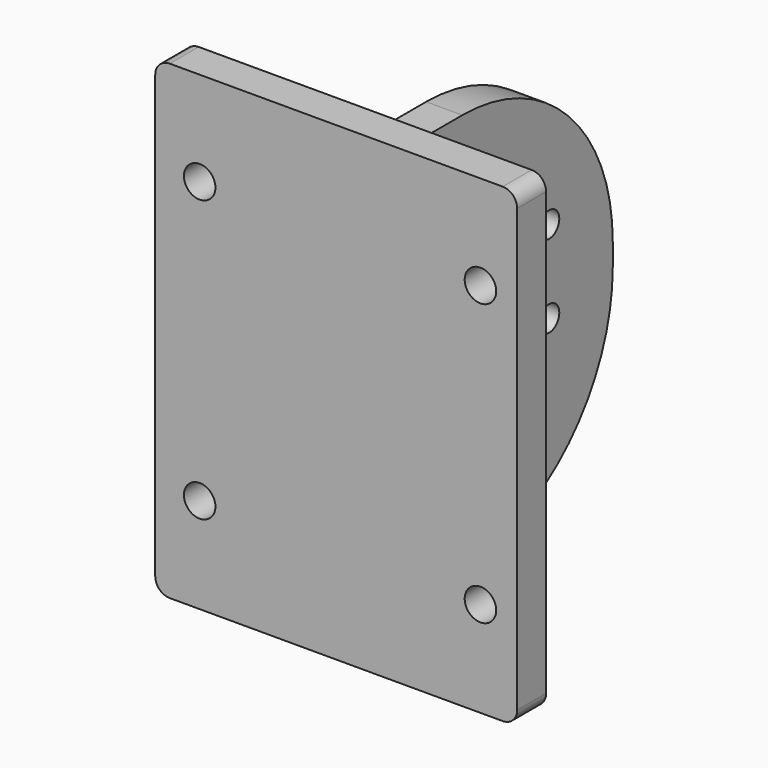
from build123d import *

# Parameters (mm, degrees)
F0_R     = 2.76225
F2_DEPTH = 6.35
F1_R     = 2.212587
F1_R_2   = 8.89
F3_DEPTH = 6.35


with BuildPart() as f2:
    # F0 (on Front) → F2 (new body)
    with BuildSketch(Plane.XZ):
        with BuildLine():
            ThreePointArc((31.75, 38.735), (31.006051, 40.531051), (29.21, 41.275))
            Line((29.21, 41.275), (-29.21, 41.275))
            ThreePointArc((-29.21, 41.275), (-31.006051, 40.531051), (-31.75, 38.735))
            Line((-31.75, 38.735), (-31.75, -38.735))
            ThreePointArc((-31.75, -38.735), (-31.006051, -40.531051), (-29.21, -41.275))
            Line((-29.21, -41.275), (29.21, -41.275))
            ThreePointArc((29.21, -41.275), (31.006051, -40.531051), (31.75, -38.735))
            Line((31.75, -38.735), (31.75, 38.735))
        make_face()
        with Locations((-23.957804, -24.542595)):
            Circle(F0_R, mode=Mode.SUBTRACT)
        with Locations((25.305496, -24.542595)):
            Circle(F0_R, mode=Mode.SUBTRACT)
        with Locations((-23.957804, 24.733405)):
            Circle(F0_R, mode=Mode.SUBTRACT)
        with Locations((25.305496, 24.733405)):
            Circle(F0_R, mode=Mode.SUBTRACT)
    extrude(amount=F2_DEPTH)

    # F1 (on Right) → F3 (join)
    with BuildSketch(Plane.YZ):
        with BuildLine():
            Line((13.372925, 36.859672), (0, 36.859672))
            Line((0, 36.859672), (0, -32.990328))
            Line((0, -32.990328), (13.372925, -32.990328))
            ThreePointArc((13.372925, -32.990328), (36.70061, -23.327685), (46.363253, 0))
            Line((46.363253, 0), (46.363253, 3.869344))
            ThreePointArc((46.363253, 3.869344), (36.70061, 27.197029), (13.372925, 36.859672))
        make_face()
        with Locations((12.302128, -2.276747)):
            Circle(F1_R, mode=Mode.SUBTRACT)
        with Locations((32.423356, -2.276747)):
            Circle(F1_R, mode=Mode.SUBTRACT)
        with Locations((22.446176, 4.798007)):
            Circle(F1_R_2, mode=Mode.SUBTRACT)
        with Locations((12.302128, 12.229255)):
            Circle(F1_R, mode=Mode.SUBTRACT)
        with Locations((32.423356, 12.229255)):
            Circle(F1_R, mode=Mode.SUBTRACT)
    extrude(amount=F3_DEPTH)


solid = f2.part
